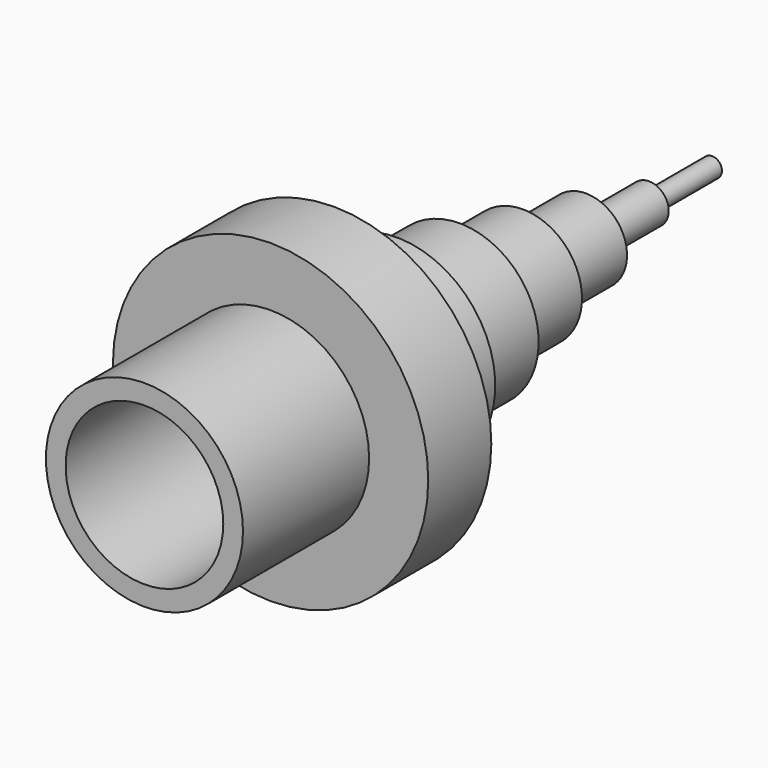
from build123d import *

# Parameters (mm, degrees)
F0_R      = 40
F1_DEPTH  = 20
F2_R      = 25
F3_DEPTH  = 20
F4_R      = 20
F5_DEPTH  = 20
F6_R      = 15
F7_DEPTH  = 20
F8_R      = 10.4214785956
F9_DEPTH  = 20
F10_R     = 5
F11_DEPTH = 20
F12_R     = 2.5
F13_DEPTH = 20
F14_R     = 25
F15_DEPTH = 40
F16_R     = 20
F17_DEPTH = 60


with BuildPart() as f1:
    # F0 (on Front) → F1 (new body)
    with BuildSketch(Plane.XZ):
        Circle(F0_R)
    extrude(amount=F1_DEPTH)

    # F2 (on face) → F3 (join)
    with BuildSketch(Plane(origin=(0, 0, 0), x_dir=(-1, 0, 0), z_dir=(0, 1, 0))):
        Circle(F2_R)
    extrude(amount=F3_DEPTH)

    # F4 (on face) → F5 (join)
    with BuildSketch(Plane(origin=(0, 20, 0), x_dir=(-1, 0, 0), z_dir=(0, 1, 0))):
        Circle(F4_R)
    extrude(amount=F5_DEPTH)

    # F6 (on face) → F7 (join)
    with BuildSketch(Plane(origin=(0, 40, 0), x_dir=(-1, 0, 0), z_dir=(0, 1, 0))):
        Circle(F6_R)
    extrude(amount=F7_DEPTH)

    # F8 (on face) → F9 (join)
    with BuildSketch(Plane(origin=(0, 60, 0), x_dir=(-1, 0, 0), z_dir=(0, 1, 0))):
        Circle(F8_R)
    extrude(amount=F9_DEPTH)

    # F10 (on face) → F11 (join)
    with BuildSketch(Plane(origin=(0, 80, 0), x_dir=(-1, 0, 0), z_dir=(0, 1, 0))):
        Circle(F10_R)
    extrude(amount=F11_DEPTH)

    # F12 (on face) → F13 (join)
    with BuildSketch(Plane(origin=(0, 100, 0), x_dir=(-1, 0, 0), z_dir=(0, 1, 0))):
        Circle(F12_R)
    extrude(amount=F13_DEPTH)

    # F14 (on face) → F15 (join)
    with BuildSketch(Plane.XZ.offset(20)):
        Circle(F14_R)
    extrude(amount=F15_DEPTH)

    # F16 (on face) → F17 (cut)
    with BuildSketch(Plane.XZ.offset(60)):
        Circle(F16_R)
    extrude(amount=-F17_DEPTH, mode=Mode.SUBTRACT)


solid = f1.part
